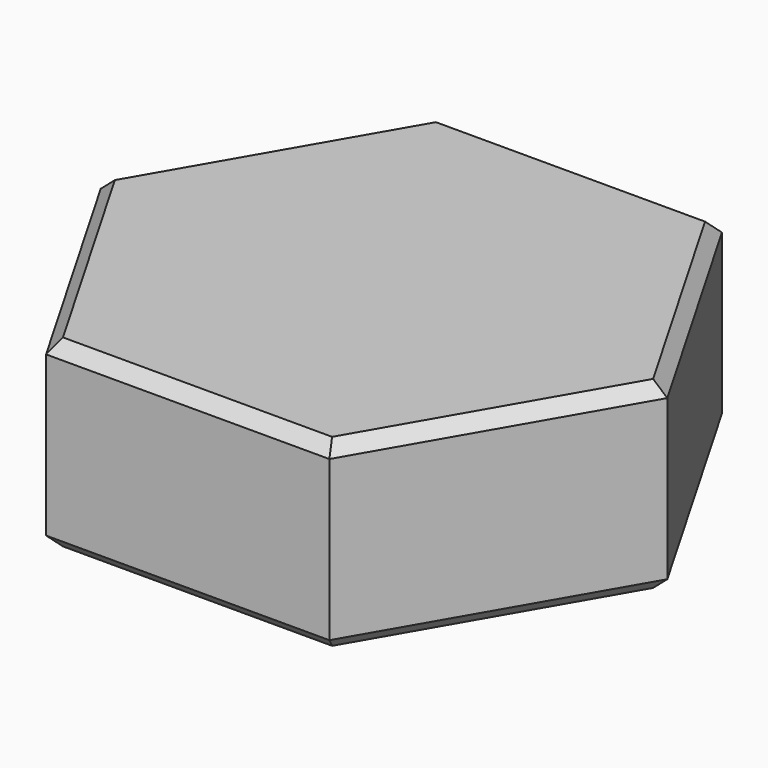
from build123d import *

# Parameters (mm, degrees)
PAD_DEPTH       = 3
SKETCH001_R     = 2.125
POCKET_DEPTH    = 2.15
CHAMFER_SIZE    = 0.2
CHAMFER001_SIZE = 0.2


with BuildPart() as part:
    # Sketch → Pad (new body)
    with BuildSketch(Plane.XY):
        Polygon((4.618802, 0), (2.309401, 4), (-2.309401, 4), (-4.618802, 0), (-2.309401, -4), (2.309401, -4), align=None)
    extrude(amount=PAD_DEPTH)

    # Sketch001 → Pocket (cut)
    with BuildSketch(Plane.XY):
        Circle(SKETCH001_R)
    extrude(amount=POCKET_DEPTH, mode=Mode.SUBTRACT)

    # Chamfer
    chamfer_edges = [part.edges().sort_by_distance(p)[0] for p in [
        (3.464102, 2, 3),
        (0, 4, 3),
        (-3.464102, 2, 3),
        (-3.464102, -2, 3),
        (0, -4, 3),
        (3.464102, -2, 3),
    ]]
    chamfer(chamfer_edges, length=CHAMFER_SIZE)

    # Chamfer001
    chamfer001_edges = [part.edges().sort_by_distance(p)[0] for p in [
        (3.464102, 2, 0),
        (3.464102, -2, 0),
        (0, 4, 0),
        (0, -4, 0),
        (-3.464102, 2, 0),
        (-3.464102, -2, 0),
        (-2.125, 0, 0),
    ]]
    chamfer(chamfer001_edges, length=CHAMFER001_SIZE)


solid = part.part
